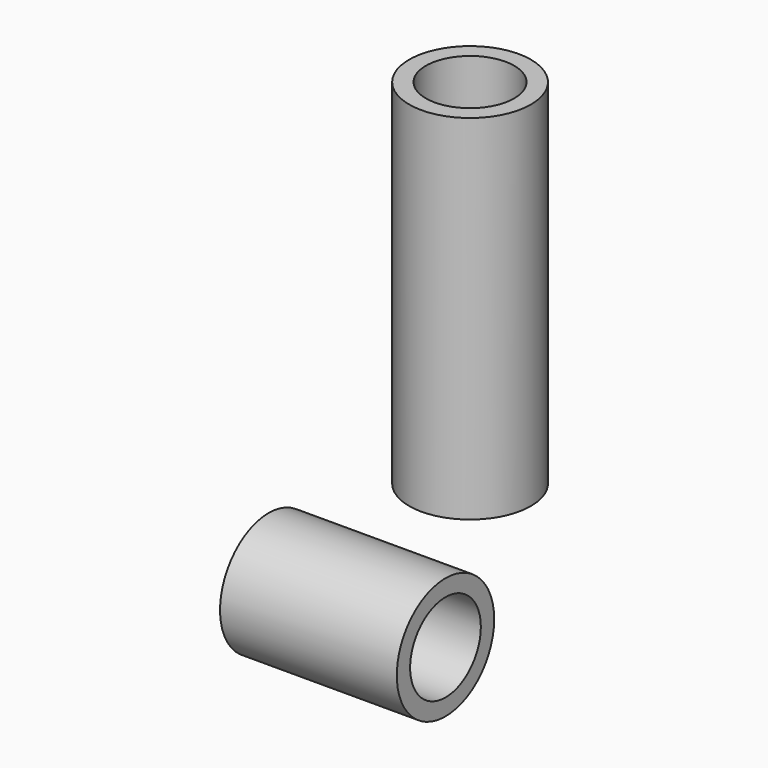
from build123d import *

# Parameters (mm, degrees)
F0_R     = 92.71
F1_DEPTH = 538.48
F2_R     = 92.71
F3_DEPTH = 269.24
F4_T     = -25.4
F4_2_T   = -25.4


with BuildPart() as f1:
    # F0 (on Top) → F1 (new body)
    with BuildSketch(Plane.XY):
        Circle(F0_R)
    extrude(amount=F1_DEPTH)

    # F4
    f4_openings = [f1.faces().sort_by_distance(p)[0] for p in [
        (0, 0, 538.48),
        (0, 0, 0),
    ]]
    offset(amount=F4_T, openings=f4_openings)


with BuildPart() as f3:
    # F2 (on Right) → F3 (new body)
    with BuildSketch(Plane.YZ):
        with Locations((-383.327335, 23.863822)):
            Circle(F2_R)
    extrude(amount=F3_DEPTH)

    # F4#2
    f4_2_openings = [f3.faces().sort_by_distance(p)[0] for p in [
        (269.24, -383.327335, 23.863822),
        (0, -383.327335, 23.863822),
    ]]
    offset(amount=F4_2_T, openings=f4_2_openings)


solid = Compound([f1.part, f3.part])
